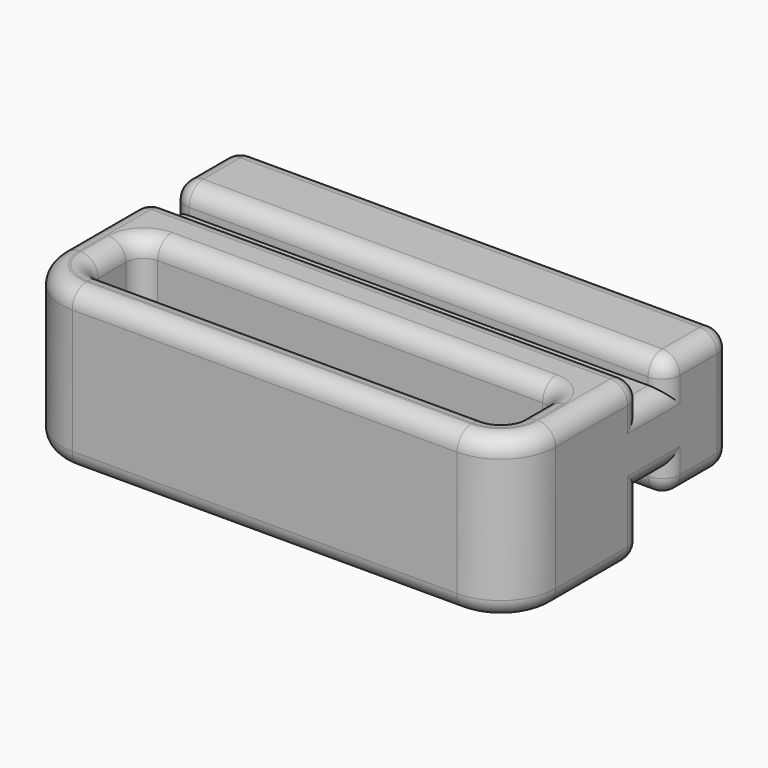
from build123d import *

# Parameters (mm, degrees)
SKETCH001_W     = 18.4
SKETCH001_H     = 18.1
PAD001_DEPTH    = 28
SKETCH002_W     = 7.9
SKETCH002_H     = 47.6
POCKET_DEPTH    = 18.101
FILLET001_R     = 6.2
FILLET002_R     = 2
PAD_DEPTH       = 28
FILLET_R        = 2
SKETCH003_R     = 2.1
POCKET001_DEPTH = 10


with BuildPart() as socketbody:
    # Sketch001 → Pad001 (new body, symmetric)
    with BuildSketch(Plane.YZ):
        with Locations((-9.2, -2.1)):
            Rectangle(SKETCH001_W, SKETCH001_H)
    extrude(amount=PAD001_DEPTH, both=True)

    # Sketch002 (on Face1 of Pad001) → Pocket (cut, through all)
    with BuildSketch(Plane(origin=(0, 0, 6.95), x_dir=(0, -1, 0), z_dir=(0, 0, 1))):
        with Locations((10.25, 0)):
            Rectangle(SKETCH002_W, SKETCH002_H)
    extrude(amount=-POCKET_DEPTH, mode=Mode.SUBTRACT)

    # Fillet001
    fillet001_edges = [socketbody.edges().sort_by_distance(p)[0] for p in [
        (28, -18.4, -2.1),
        (-28, -18.4, -2.1),
    ]]
    fillet(fillet001_edges, radius=FILLET001_R)

    # Fillet002
    fillet002_edges = [socketbody.edges().sort_by_distance(p)[0] for p in [
        (-23.8, -10.25, 6.95),
        (0, -6.3, 6.95),
        (23.8, -10.25, 6.95),
        (0, -14.2, 6.95),
        (-23.8, -6.3, -2.1),
        (-28, -6.1, 6.95),
        (-26.184062, -16.584062, 6.95),
        (0, -18.4, 6.95),
        (26.184062, -16.584062, 6.95),
        (28, -6.1, 6.95),
        (0, 0, 6.95),
        (28, -6.1, -11.15),
        (26.184062, -16.584062, -11.15),
        (0, -18.4, -11.15),
        (-26.184062, -16.584062, -11.15),
        (28, 0, -2.1),
        (-28, 0, -2.1),
        (-28, -6.1, -11.15),
        (0, 0, -11.15),
        (0, -6.3, -11.15),
        (23.8, -10.25, -11.15),
        (0, -14.2, -11.15),
        (23.8, -14.2, -2.1),
        (-23.8, -10.25, -11.15),
        (-23.8, -14.2, -2.1),
        (23.8, -6.3, -2.1),
    ]]
    fillet(fillet002_edges, radius=FILLET002_R)


with BuildPart() as socketandrailbody:
    # Sketch → Pad (new body, symmetric)
    with BuildSketch(Plane.YZ):
        Polygon((-2, 4.125), (3.4, 4.125), (3.4, 6.95), (12.65, 6.95), (12.65, -6.95), (3.4, -6.95), (3.4, -4.125), (-2, -4.125), align=None)
    extrude(amount=PAD_DEPTH, both=True)

    # Fillet
    fillet_edges = [socketandrailbody.edges().sort_by_distance(p)[0] for p in [
        (-28, 8.025, 6.95),
        (0, 3.4, 6.95),
        (0, 12.65, 6.95),
        (28, 8.025, 6.95),
        (28, 12.65, 0),
        (0, 12.65, -6.95),
        (-28, 12.65, 0),
        (-28, 8.025, -6.95),
        (28, 8.025, -6.95),
        (0, 3.4, -6.95),
        (28, 3.4, -5.5375),
        (28, 3.4, 5.5375),
        (-28, 3.4, -5.5375),
        (-28, 0.7, -4.125),
        (28, 0.7, -4.125),
        (28, 0.7, 4.125),
        (-28, 0.7, 4.125),
        (-28, 3.4, 5.5375),
    ]]
    fillet(fillet_edges, radius=FILLET_R)

    # Sketch003 (on Face2 of Fillet) → Pocket001 (cut)
    with BuildSketch(Plane(origin=(0, -2, 0), x_dir=(0, 0, -1), z_dir=(0, -1, 0))):
        with Locations((0, 20)):
            Circle(SKETCH003_R)
        with Locations((0, -20)):
            Circle(SKETCH003_R)
    extrude(amount=-POCKET001_DEPTH, mode=Mode.SUBTRACT)

    # Fusion: union SocketBody
    add(socketbody.part)


solid = socketandrailbody.part
